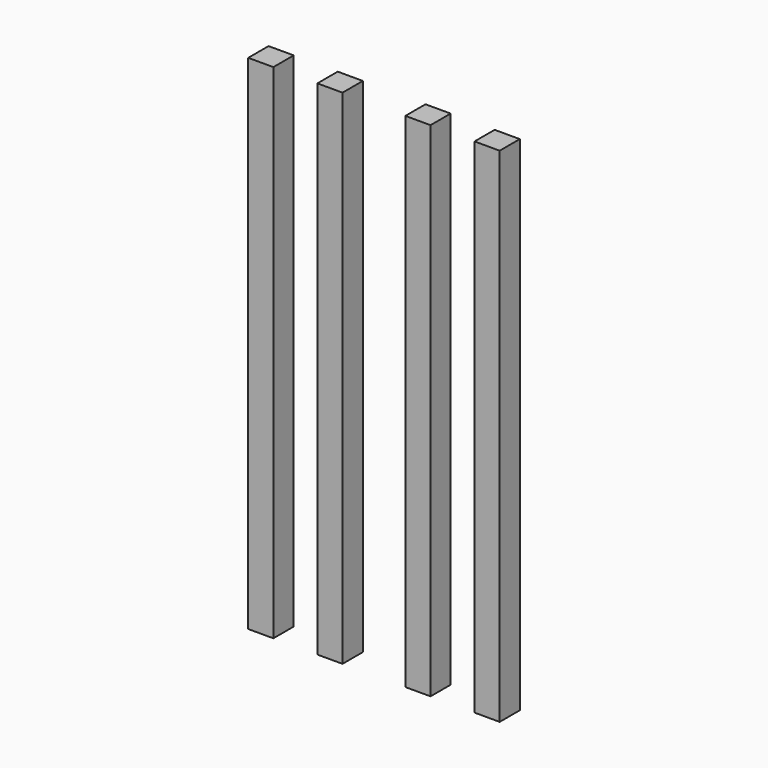
from build123d import *

# Parameters (mm, degrees)
F1_W     = 25.4
F1_H     = 25.4
F2_DEPTH = 508
F1_H_2   = 25.6818179041


with BuildPart() as f2:
    # F1 (on Top) → F2 (new body)
    with BuildSketch(Plane.XY):
        with Locations((12.7, 12.7)):
            Rectangle(F1_W, F1_H)
    extrude(amount=F2_DEPTH)


with BuildPart() as f2b:
    # F1 (on Top) → F2, piece 2 (new body)
    with BuildSketch(Plane.XY):
        with Locations((82.55, 12.7)):
            Rectangle(F1_W, F1_H)
    extrude(amount=F2_DEPTH)


with BuildPart() as f2c:
    # F1 (on Top) → F2, piece 3 (new body)
    with BuildSketch(Plane.XY):
        with Locations((-76.2, 12.8409089521)):
            Rectangle(F1_W, F1_H_2)
    extrude(amount=F2_DEPTH)


with BuildPart() as f2d:
    # F1 (on Top) → F2, piece 4 (new body)
    with BuildSketch(Plane.XY):
        with Locations((-146.05, 12.8409089521)):
            Rectangle(F1_W, F1_H_2)
    extrude(amount=F2_DEPTH)


solid = Compound([f2.part, f2b.part, f2c.part, f2d.part])
